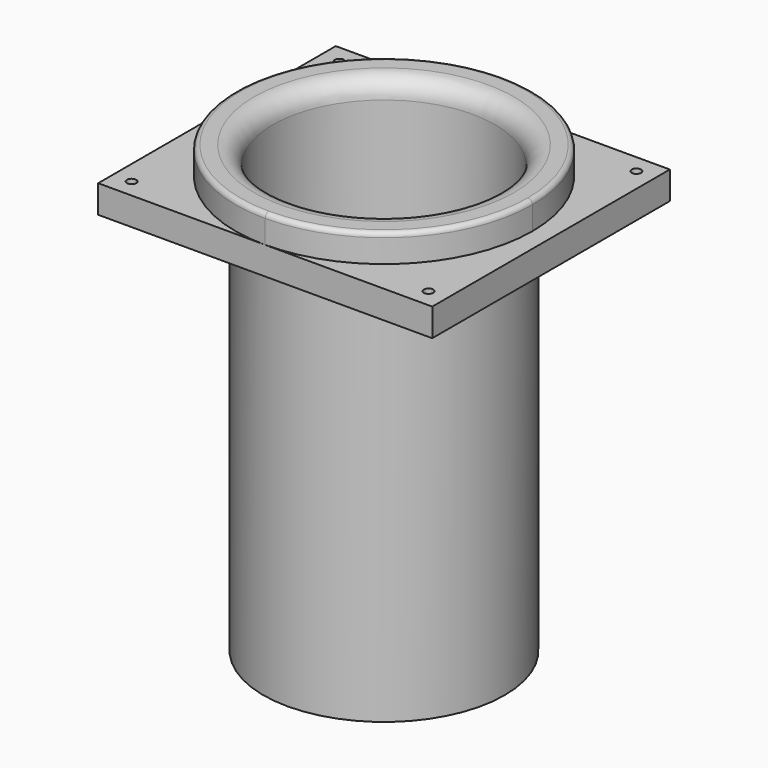
from build123d import *

# Parameters (mm, degrees)
F0_R     = 3.175
F1_DEPTH = 19.05
F0_R_2   = 82.55
F0_R_3   = 76.2
F2_DEPTH = 38.1
F3_DEPTH = 266.7
F4_R     = 12.7
F5_R     = 3.175


with BuildPart() as f1:
    # F0 (on Top) → F1 (new body)
    with BuildSketch(Plane.XY):
        with BuildLine():
            Line((0, 203.2), (0, 0))
            Line((0, 0), (114.3, 0))
            ThreePointArc((114.3, 0), (12.7, 101.6), (114.3, 203.2))
            Line((114.3, 203.2), (0, 203.2))
        make_face()
        with Locations((12.7, 12.7)):
            Circle(F0_R, mode=Mode.SUBTRACT)
        with Locations((12.7, 190.5)):
            Circle(F0_R, mode=Mode.SUBTRACT)
    extrude(amount=F1_DEPTH)



with BuildPart() as f1b:
    # F0 (on Top) → F1, piece 2 (new body)
    with BuildSketch(Plane.XY):
        with BuildLine():
            ThreePointArc((215.9, 101.6), (186.1420489686, 29.7579510314), (114.3, 0))
            Line((114.3, 0), (228.6, 0))
            Line((228.6, 0), (228.6, 203.2))
            Line((228.6, 203.2), (114.3, 203.2))
            ThreePointArc((114.3, 203.2), (186.1420489686, 173.4420489686), (215.9, 101.6))
        make_face()
        with Locations((215.9, 12.7)):
            Circle(F0_R, mode=Mode.SUBTRACT)
        with Locations((215.9, 190.5)):
            Circle(F0_R, mode=Mode.SUBTRACT)
    extrude(amount=F1_DEPTH)


with BuildPart() as f1_1:
    add(f1.part)

    add(f1b.part)  # F2 merges F1b
    # F0 (on Top) → F2 (join)
    with BuildSketch(Plane.XY):
        with BuildLine():
            ThreePointArc((114.3, 203.2), (12.7, 101.6), (114.3, 0))
            ThreePointArc((114.3, 0), (186.1420489686, 29.7579510314), (215.9, 101.6))
            ThreePointArc((215.9, 101.6), (186.1420489686, 173.4420489686), (114.3, 203.2))
        make_face()
        with Locations((114.3, 101.6)):
            Circle(F0_R_2, mode=Mode.SUBTRACT)
        with Locations((114.3, 101.6)):
            Circle(F0_R_2)
        with Locations((114.3, 101.6)):
            Circle(F0_R_3, mode=Mode.SUBTRACT)
    extrude(amount=F2_DEPTH)

    # F0 (on Top) → F3 (join)
    with BuildSketch(Plane.XY):
        with Locations((114.3, 101.6)):
            Circle(F0_R_2)
        with Locations((114.3, 101.6)):
            Circle(F0_R_3, mode=Mode.SUBTRACT)
    extrude(amount=-F3_DEPTH)

    # F4
    f4_edges = [f1_1.edges().sort_by_distance(p)[0] for p in [
        (38.1, 101.6, 38.1),
    ]]
    fillet(f4_edges, radius=F4_R)

    # F5
    f5_edges = [f1_1.edges().sort_by_distance(p)[0] for p in [
        (114.3, 0, 38.1),
    ]]
    fillet(f5_edges, radius=F5_R)


solid = f1_1.part
